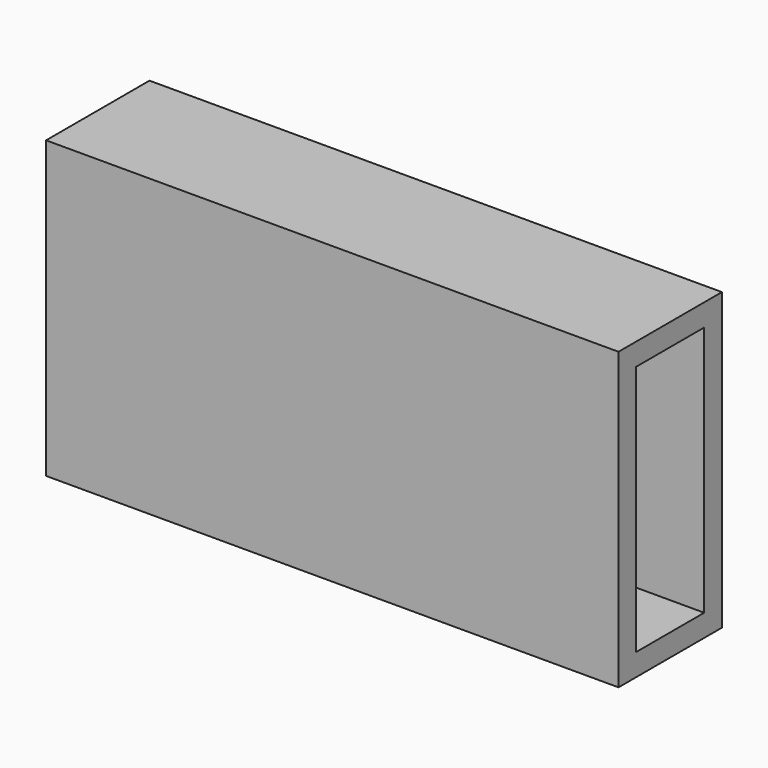
from build123d import *

# Parameters (mm, degrees)
F0_W     = 62
F0_H     = 32
F1_DEPTH = 14
F2_T     = -2.4


with BuildPart() as f1:
    # F0 (on Front) → F1 (new body)
    with BuildSketch(Plane.XZ):
        Rectangle(F0_W, F0_H)
    extrude(amount=F1_DEPTH)

    # F2
    f2_openings = [f1.faces().sort_by_distance(p)[0] for p in [
        (31, -7, 0),
        (-31, -7, 0),
    ]]
    offset(amount=F2_T, openings=f2_openings)


solid = f1.part
